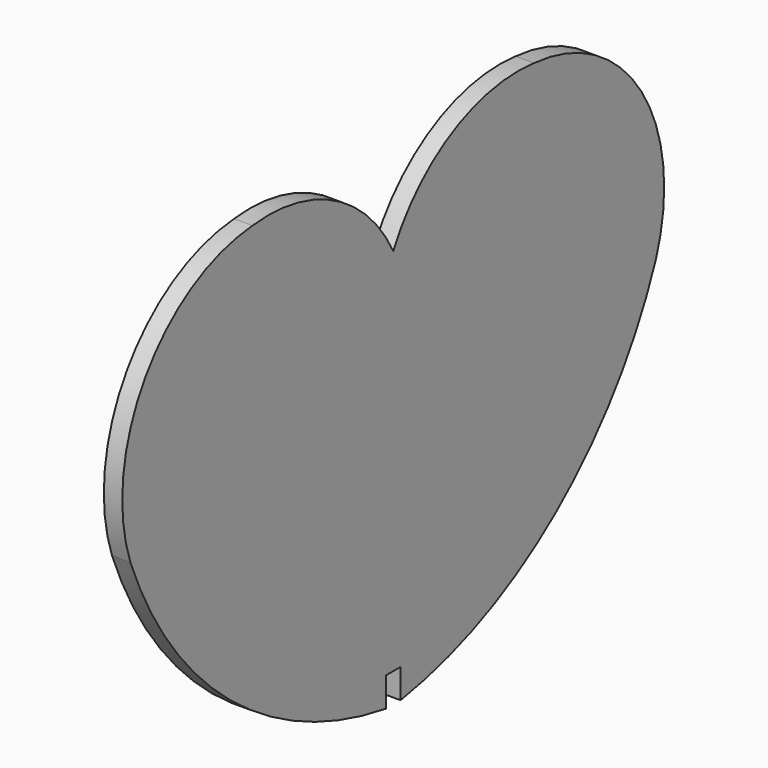
from build123d import *

# Parameters (mm, degrees)
F1_DEPTH = 3.9878


with BuildPart() as f1:
    # F0 (on Right) → F1 (new body)
    with BuildSketch(Plane.YZ):
        with BuildLine():
            Line((0, 30.48), (0, 0))
            Line((0, 0), (0, -49.619044))
            Line((0, -49.619044), (1.9939, -49.619044))
            Line((1.9939, -49.619044), (1.9939, -55.969044))
            ThreePointArc((1.9939, -55.969044), (44.05962, -37.2509), (71.12, 0))
            ThreePointArc((71.12, 0), (67.181938, 33.57176), (38.1, 50.8))
            ThreePointArc((38.1, 50.8), (15.893476, 46.558483), (0, 30.48))
        make_face()
        with BuildLine():
            Line((0, -49.619044), (0, 0))
            Line((0, 0), (0, 30.48))
            ThreePointArc((0, 30.48), (-15.893476, 46.558483), (-38.1, 50.8))
            ThreePointArc((-38.1, 50.8), (-67.181938, 33.57176), (-71.12, 0))
            ThreePointArc((-71.12, 0), (-44.05962, -37.2509), (-1.9939, -55.969044))
            Line((-1.9939, -55.969044), (-1.9939, -49.619044))
            Line((-1.9939, -49.619044), (0, -49.619044))
        make_face()
    extrude(amount=F1_DEPTH)


solid = f1.part
